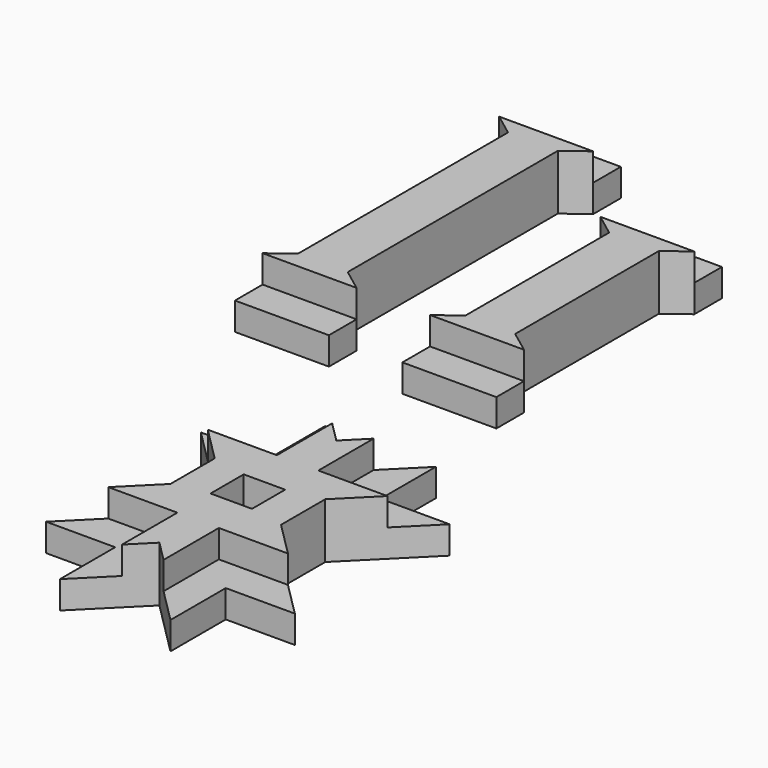
from build123d import *

# Parameters (mm, degrees)
PAD_DEPTH       = 20
POCKET_DEPTH    = 10
POCKET001_DEPTH = 10
PAD001_DEPTH    = 20
POCKET002_DEPTH = 10
PAD002_DEPTH    = 20
POCKET003_DEPTH = 10
POCKET004_DEPTH = 10
SKETCH008_W     = 15
SKETCH008_H     = 15
POCKET005_DEPTH = 20


with BuildPart() as body:
    # Sketch → Pad (new body)
    with BuildSketch(Plane.XY):
        Polygon((-33.999992, 131.999989), (8e-06, 131.999989), (8e-06, 119.499989), (-7.999985, 113.49998), (-7.999985, 18.49998), (3e-05, 12.5), (0, 0), (-34, 0), (-34, 12.5), (-25.999985, 18.49998), (-25.999985, 113.49998), (-33.999979, 119.499989), align=None)
    extrude(amount=PAD_DEPTH)

    # Sketch003 (on Face14 of Pad) → Pocket (cut)
    with BuildSketch(Plane.XY.offset(20)):
        Polygon((-34, 12.5), (3e-05, 12.5), (0, 0), (-34, 0), align=None)
    extrude(amount=-POCKET_DEPTH, mode=Mode.SUBTRACT)

    # Sketch004 (on Face5 of Pocket) → Pocket001 (cut)
    with BuildSketch(Plane.XY.offset(20)):
        Polygon((-33.999979, 119.499989), (8e-06, 119.499989), (8e-06, 131.999989), (-33.999992, 131.999989), align=None)
    extrude(amount=-POCKET001_DEPTH, mode=Mode.SUBTRACT)


with BuildPart() as i2_4cm:
    # Sketch001 → Pad001 (new body)
    with BuildSketch(Plane.XY):
        Polygon((-33.999992, 101.999989), (8e-06, 101.999989), (8e-06, 89.499989), (-7.999985, 83.49998), (-7.999985, 18.49998), (3e-05, 12.5), (0, 0), (-34, 0), (-34, 12.5), (-25.999985, 18.49998), (-25.999985, 83.49998), (-33.999979, 89.499989), align=None)
    extrude(amount=PAD001_DEPTH)

    # Sketch005 (on Face14 of Pad001) → Pocket002 (cut)
    with BuildSketch(Plane.XY.offset(20)):
        Polygon((-34, 12.5), (3e-05, 12.5), (0, 0), (-34, 0), align=None)
        Polygon((-33.999979, 89.499989), (-33.999992, 101.999989), (8e-06, 101.999989), (8e-06, 89.499989), align=None)
    extrude(amount=-POCKET002_DEPTH, mode=Mode.SUBTRACT)


with BuildPart() as i2_4cm_1:
    # Body001 placement: moved
    add(i2_4cm.part.moved(Location((60.5835, 0, 0))))


with BuildPart() as star:
    # Sketch002 → Pad002 (new body)
    with BuildSketch(Plane.XY):
        Polygon((33.87, -44), (53.87, -64), (73.87, -44), (73.87, -69), (98.87, -69), (73.87, -94), (73.87, -114), (98.87, -139), (73.87, -139), (73.87, -164), (53.87, -144), (33.87, -164), (33.87, -139), (8.87, -139), (33.87, -114), (33.87, -94), (8.87, -69), (33.87, -69), align=None)
    extrude(amount=PAD002_DEPTH)

    # Sketch006 (on Face20 of Pad002) → Pocket003 (cut)
    with BuildSketch(Plane.XY.offset(20)):
        Polygon((21.37, -126.5), (46.37, -126.5), (46.37, -151.5), (33.87, -164), (33.87, -139), (8.87, -139), align=None)
        Polygon((21.37, -81.5), (46.37, -81.5), (46.37, -56.5), (33.87, -44), (33.87, -69), (8.87, -69), align=None)
        Polygon((73.87, -44), (61.37, -56.5), (61.37, -81.5), (86.37, -81.5), (98.87, -69), (73.87, -69), align=None)
    extrude(amount=-POCKET003_DEPTH, mode=Mode.SUBTRACT)

    # Sketch007 (on Face23 of Pocket003) → Pocket004 (cut)
    with BuildSketch(Plane.XY.offset(20)):
        Polygon((61.37, -151.5), (61.37, -126.5), (86.37, -126.5), (98.87, -139), (73.87, -139), (73.87, -164), align=None)
    extrude(amount=-POCKET004_DEPTH, mode=Mode.SUBTRACT)

    # Sketch008 → Pocket005 (cut)
    with BuildSketch(Plane.XY):
        with Locations((53.87, -104)):
            Rectangle(SKETCH008_W, SKETCH008_H)
    extrude(amount=POCKET005_DEPTH, mode=Mode.SUBTRACT)


solid = Compound([body.part, i2_4cm_1.part, star.part])
